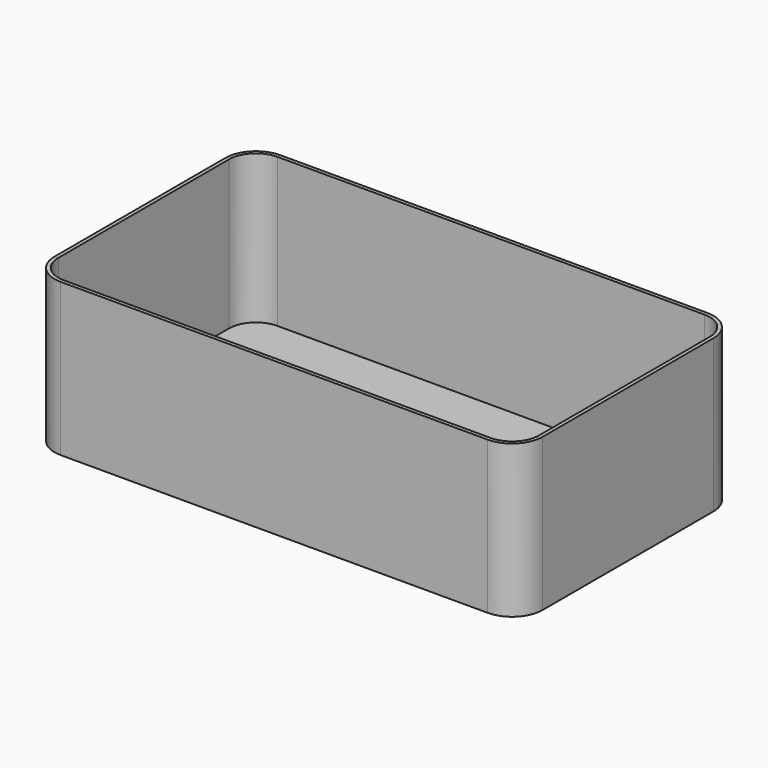
from build123d import *

# Parameters (mm, degrees)
F1_DEPTH = 50
F2_T     = -1.2


with BuildPart() as f1:
    # F0 (on Top) → F1 (new body)
    with BuildSketch(Plane.XY):
        with BuildLine():
            Line((32.812914, 40.264078), (-107.187086, 40.264078))
            ThreePointArc((-107.187086, 40.264078), (-114.258154, 37.335146), (-117.187086, 30.264078))
            Line((-117.187086, 30.264078), (-117.187086, -39.735922))
            ThreePointArc((-117.187086, -39.735922), (-114.258154, -46.80699), (-107.187086, -49.735922))
            Line((-107.187086, -49.735922), (32.812914, -49.735922))
            ThreePointArc((32.812914, -49.735922), (39.883981, -46.80699), (42.812914, -39.735922))
            Line((42.812914, -39.735922), (42.812914, 30.264078))
            ThreePointArc((42.812914, 30.264078), (39.883981, 37.335146), (32.812914, 40.264078))
        make_face()
    extrude(amount=F1_DEPTH)

    # F2
    f2_openings = [f1.faces().sort_by_distance(p)[0] for p in [
        (-37.187086, -4.735922, 50),
    ]]
    offset(amount=F2_T, openings=f2_openings)


solid = f1.part
